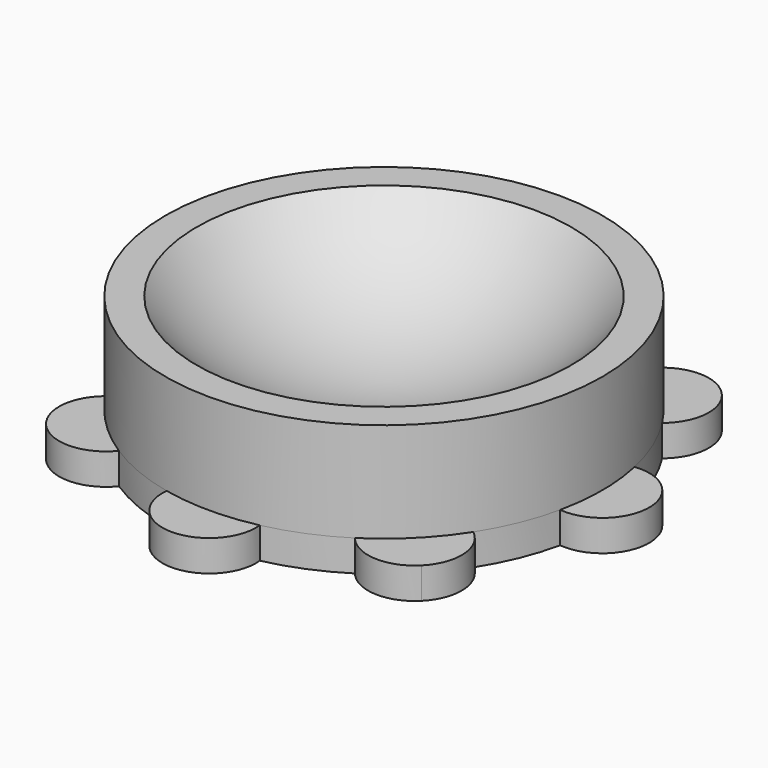
from build123d import *

# Parameters (mm, degrees)
F3_DEPTH = 5


with BuildPart() as f1:
    # F0 (on Right) → F1 (revolve)
    with BuildSketch(Plane.YZ):
        with BuildLine():
            Line((0, -14), (0, -16))
            Line((0, -16), (35, -16))
            Line((35, -16), (35, 0))
            Line((35, 0), (30, 0))
            ThreePointArc((30, 0), (16.5529453572, -10.3277400512), (0, -14))
        make_face()
    revolve(axis=Axis((0, 0, -1.8644096255), (0, 0, -1)))

    # F2 (on face) → F3 (join)
    with BuildSketch(Plane(origin=(0, 0, -16), x_dir=(1, 0, 0), z_dir=(0, 0, -1))):
        with BuildLine():
            ThreePointArc((7.4568272716, 34.1964285714), (0, 42.5), (-7.4568272716, 34.1964285714))
            ThreePointArc((-7.4568272716, 34.1964285714), (0, 35), (7.4568272716, 34.1964285714))
        make_face()
        with BuildLine():
            Line((30.0520382004, 30.0520382004), (24.7487373415, 24.7487373415))
            ThreePointArc((24.7487373415, 24.7487373415), (27.2579250357, 21.9546241768), (29.4532996651, 18.9077534053))
            ThreePointArc((29.4532996651, 18.9077534053), (32.2379363821, 24.3463721699), (30.0520382004, 30.0520382004))
        make_face()
        with BuildLine():
            ThreePointArc((30.0520382004, 30.0520382004), (24.3463721699, 32.2379363821), (18.9077534053, 29.4532996651))
            ThreePointArc((18.9077534053, 29.4532996651), (21.9546241768, 27.2579250357), (24.7487373415, 24.7487373415))
            Line((24.7487373415, 24.7487373415), (30.0520382004, 30.0520382004))
        make_face()
        with BuildLine():
            ThreePointArc((35, 0), (34.7985272677, -3.75), (34.1964285714, -7.4568272716))
            ThreePointArc((34.1964285714, -7.4568272716), (42.5, 0), (34.1964285714, 7.4568272716))
            ThreePointArc((34.1964285714, 7.4568272716), (34.7985272677, 3.75), (35, 0))
        make_face()
        with BuildLine():
            ThreePointArc((29.4532996651, -18.9077534053), (27.2579250357, -21.9546241768), (24.7487373415, -24.7487373415))
            Line((24.7487373415, -24.7487373415), (30.0520382004, -30.0520382004))
            ThreePointArc((30.0520382004, -30.0520382004), (32.2379363821, -24.3463721699), (29.4532996651, -18.9077534053))
        make_face()
        with BuildLine():
            Line((30.0520382004, -30.0520382004), (24.7487373415, -24.7487373415))
            ThreePointArc((24.7487373415, -24.7487373415), (21.9546241768, -27.2579250357), (18.9077534053, -29.4532996651))
            ThreePointArc((18.9077534053, -29.4532996651), (24.3463721699, -32.2379363821), (30.0520382004, -30.0520382004))
        make_face()
        with BuildLine():
            ThreePointArc((7.4568272716, -34.1964285714), (0, -35), (-7.4568272716, -34.1964285714))
            ThreePointArc((-7.4568272716, -34.1964285714), (0, -42.5), (7.4568272716, -34.1964285714))
        make_face()
        with BuildLine():
            Line((-24.7487373415, -24.7487373415), (-30.0520382004, -30.0520382004))
            ThreePointArc((-30.0520382004, -30.0520382004), (-24.3463721699, -32.2379363821), (-18.9077534053, -29.4532996651))
            ThreePointArc((-18.9077534053, -29.4532996651), (-21.9546241768, -27.2579250357), (-24.7487373415, -24.7487373415))
        make_face()
        with BuildLine():
            ThreePointArc((-24.7487373415, -24.7487373415), (-27.2579250357, -21.9546241768), (-29.4532996651, -18.9077534053))
            ThreePointArc((-29.4532996651, -18.9077534053), (-32.2379363821, -24.3463721699), (-30.0520382004, -30.0520382004))
            Line((-30.0520382004, -30.0520382004), (-24.7487373415, -24.7487373415))
        make_face()
        with BuildLine():
            ThreePointArc((-34.1964285714, -7.4568272716), (-35, 0), (-34.1964285714, 7.4568272716))
            ThreePointArc((-34.1964285714, 7.4568272716), (-42.5, 0), (-34.1964285714, -7.4568272716))
        make_face()
        with BuildLine():
            ThreePointArc((-18.9077534053, 29.4532996651), (-30.0520382004, 30.0520382004), (-29.4532996651, 18.9077534053))
            ThreePointArc((-29.4532996651, 18.9077534053), (-28.7456915825, 19.9671033313), (-28, 21))
            Line((-28, 21), (-28, 28))
            Line((-28, 28), (-24.7487373415, 24.7487373415))
            ThreePointArc((-24.7487373415, 24.7487373415), (-21.9546241768, 27.2579250357), (-18.9077534053, 29.4532996651))
        make_face()
        with BuildLine():
            ThreePointArc((-7.4568272716, 34.1964285714), (-13.3939201328, 32.3357836379), (-18.9077534053, 29.4532996651))
            ThreePointArc((-18.9077534053, 29.4532996651), (-21.9546241768, 27.2579250357), (-24.7487373415, 24.7487373415))
            Line((-24.7487373415, 24.7487373415), (0, 0))
            Line((0, 0), (24.7487373415, 24.7487373415))
            ThreePointArc((24.7487373415, 24.7487373415), (21.9546241768, 27.2579250357), (18.9077534053, 29.4532996651))
            ThreePointArc((18.9077534053, 29.4532996651), (13.3939201328, 32.3357836379), (7.4568272716, 34.1964285714))
            ThreePointArc((7.4568272716, 34.1964285714), (0, 35), (-7.4568272716, 34.1964285714))
        make_face()
        with BuildLine():
            Line((24.7487373415, 24.7487373415), (0, 0))
            Line((0, 0), (24.7487373415, -24.7487373415))
            ThreePointArc((24.7487373415, -24.7487373415), (27.2579250357, -21.9546241768), (29.4532996651, -18.9077534053))
            ThreePointArc((29.4532996651, -18.9077534053), (32.3357836379, -13.3939201328), (34.1964285714, -7.4568272716))
            ThreePointArc((34.1964285714, -7.4568272716), (34.7985272677, -3.75), (35, 0))
            ThreePointArc((35, 0), (34.7985272677, 3.75), (34.1964285714, 7.4568272716))
            ThreePointArc((34.1964285714, 7.4568272716), (32.3357836379, 13.3939201328), (29.4532996651, 18.9077534053))
            ThreePointArc((29.4532996651, 18.9077534053), (27.2579250357, 21.9546241768), (24.7487373415, 24.7487373415))
        make_face()
        with BuildLine():
            Line((24.7487373415, -24.7487373415), (0, 0))
            Line((0, 0), (-24.7487373415, -24.7487373415))
            ThreePointArc((-24.7487373415, -24.7487373415), (-21.9546241768, -27.2579250357), (-18.9077534053, -29.4532996651))
            ThreePointArc((-18.9077534053, -29.4532996651), (-13.3939201328, -32.3357836379), (-7.4568272716, -34.1964285714))
            ThreePointArc((-7.4568272716, -34.1964285714), (0, -35), (7.4568272716, -34.1964285714))
            ThreePointArc((7.4568272716, -34.1964285714), (13.3939201328, -32.3357836379), (18.9077534053, -29.4532996651))
            ThreePointArc((18.9077534053, -29.4532996651), (21.9546241768, -27.2579250357), (24.7487373415, -24.7487373415))
        make_face()
        with BuildLine():
            ThreePointArc((-28, 21), (-28.7456915825, 19.9671033313), (-29.4532996651, 18.9077534053))
            ThreePointArc((-29.4532996651, 18.9077534053), (-32.3357836379, 13.3939201328), (-34.1964285714, 7.4568272716))
            ThreePointArc((-34.1964285714, 7.4568272716), (-35, 0), (-34.1964285714, -7.4568272716))
            ThreePointArc((-34.1964285714, -7.4568272716), (-32.3357836379, -13.3939201328), (-29.4532996651, -18.9077534053))
            ThreePointArc((-29.4532996651, -18.9077534053), (-27.2579250357, -21.9546241768), (-24.7487373415, -24.7487373415))
            Line((-24.7487373415, -24.7487373415), (0, 0))
            Line((0, 0), (-28, 0))
            Line((-28, 0), (-28, 21))
        make_face()
        with BuildLine():
            ThreePointArc((-24.7487373415, 24.7487373415), (-26.4408884249, 22.9320609476), (-28, 21))
            Line((-28, 21), (-28, 0))
            Line((-28, 0), (0, 0))
            Line((0, 0), (-24.7487373415, 24.7487373415))
        make_face()
        with BuildLine():
            Line((-28, 28), (-28, 21))
            ThreePointArc((-28, 21), (-26.4408884249, 22.9320609476), (-24.7487373415, 24.7487373415))
            Line((-24.7487373415, 24.7487373415), (-28, 28))
        make_face()
    extrude(amount=F3_DEPTH)


solid = f1.part
